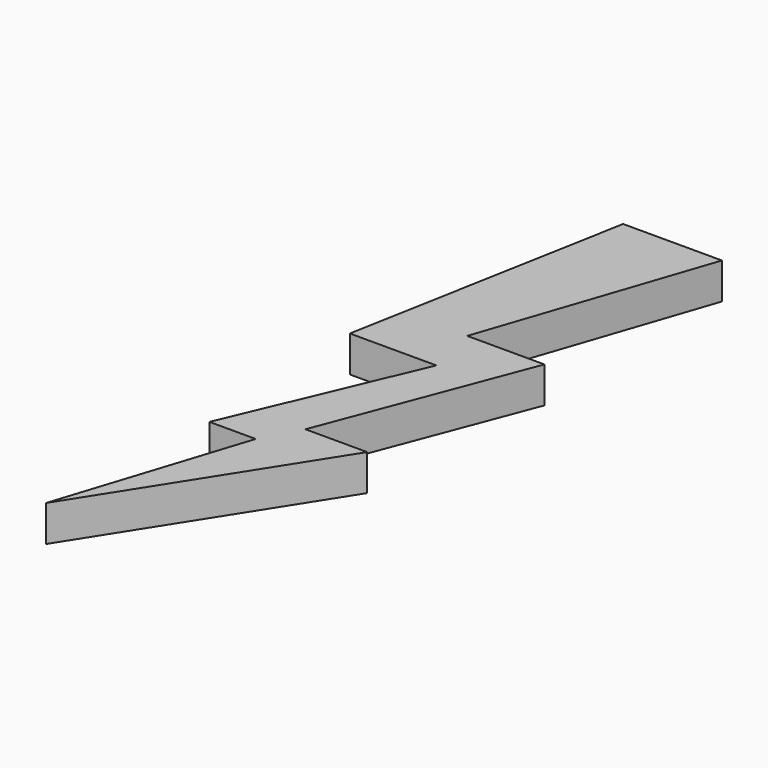
from build123d import *

# Parameters (mm, degrees)
PAD_DEPTH = 5


with BuildPart() as part:
    # Sketch → Pad (new body)
    with BuildSketch(Plane.XY):
        Polygon((19.764952, 42.307701), (33.440163, 42.307701), (22.970072, 11.324796), (33.653835, 11.324796), (22.970072, -16.666656), (31.51708, -16.666656), (11.858968, -47.649563), (20.192299, -21.794861), (13.78204, -21.794861), (24.679474, 3.846165), (12.713669, 3.846165), align=None)
    extrude(amount=PAD_DEPTH)


solid = part.part
